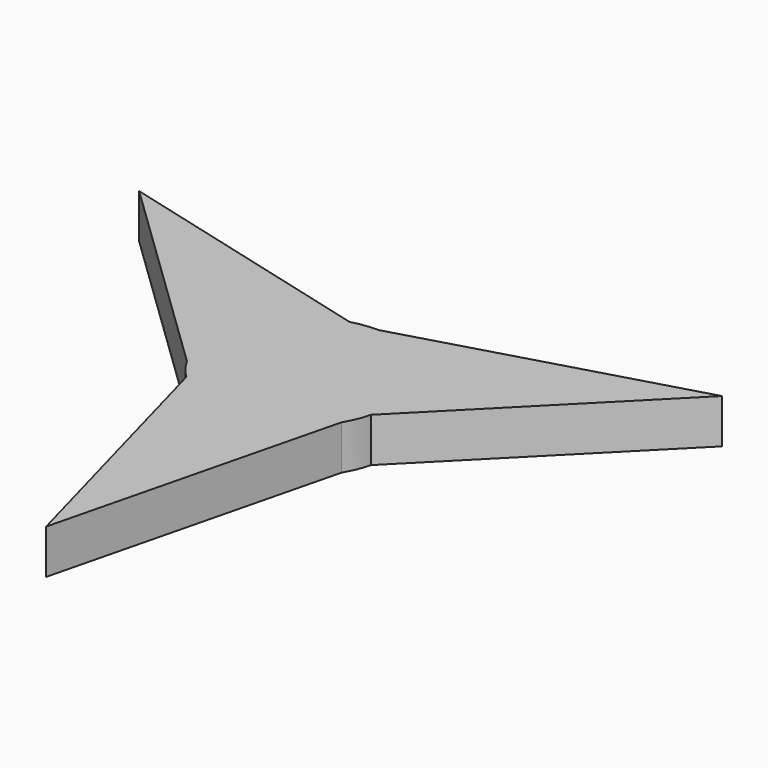
from build123d import *

# Parameters (mm, degrees)
F1_DEPTH = 6


with BuildPart() as f1:
    # F0 (on Top) → F1 (new body)
    with BuildSketch(Plane.XY):
        with BuildLine():
            ThreePointArc((0.4028900985, 12.4038021196), (2.5709266159, 12.1679521994), (4.6613367434, 11.5465078941))
            Line((4.6613367434, 11.5465078941), (27.7654736656, 20.0070271084))
            Line((27.7654736656, 20.0070271084), (18.6411851954, 12.0324539382))
            Line((18.6411851954, 12.0324539382), (29.9736770552, 16.1823066442))
            Line((29.9736770552, 16.1823066442), (12.269739771, 0.709172083))
            ThreePointArc((12.269739771, 0.709172083), (12.2734322165, 0.5725746976), (12.2755807666, 0.4359443072))
            ThreePointArc((12.2755807666, 0.4359443072), (12.2760408839, 0.3750438497), (12.2761942576, 0.3141418472))
            ThreePointArc((12.2761942576, 0.3141418472), (12.2744790315, 0.1104832554), (12.2693338398, -0.0931175575))
            ThreePointArc((12.2693338398, -0.0931175575), (12.2708871547, -0.2050074672), (12.2714049411, -0.3169069604))
            ThreePointArc((12.2714049411, -0.3169069604), (12.1817268997, -1.786827199), (11.9140229769, -3.2349439997))
            Line((11.9140229769, -3.2349439997), (38.1905606473, 23.2777061292))
            Line((38.1905606473, 23.2777061292), (0.4028900985, 12.4038021196))
        make_face()
        with BuildLine():
            Line((27.7654736656, 20.0070271084), (4.6613367434, 11.5465078941))
            ThreePointArc((4.6613367434, 11.5465078941), (10.0808508039, 7.2618778264), (12.269739771, 0.709172083))
            Line((12.269739771, 0.709172083), (29.9736770552, 16.1823066442))
            Line((29.9736770552, 16.1823066442), (18.6411851954, 12.0324539382))
            Line((18.6411851954, 12.0324539382), (27.7654736656, 20.0070271084))
        make_face()
        with BuildLine():
            Line((3.4438568973, -34.0491190968), (7.6689007896, -9.8100899824))
            ThreePointArc((7.6689007896, -9.8100899824), (1.2485452749, -12.3612118011), (-5.520708846, -10.980492381))
            Line((-5.520708846, -10.980492381), (-0.9725498819, -34.0491190968))
            Line((-0.9725498819, -34.0491190968), (1.0998181826, -22.159966905))
            Line((1.0998181826, -22.159966905), (3.4438568973, -34.0491190968))
        make_face()
        with BuildLine():
            ThreePointArc((-12.3302375329, -1.7364179117), (-11.3293960788, 5.0993339748), (-6.749030925, 10.271320298))
            Line((-6.749030925, 10.271320298), (-29.0011271733, 17.8668124526))
            Line((-29.0011271733, 17.8668124526), (-19.7410033781, 10.1275129668))
            Line((-19.7410033781, 10.1275129668), (-31.2093305629, 14.0420919883))
            Line((-31.2093305629, 14.0420919883), (-12.3302375329, -1.7364179117))
        make_face()
        with BuildLine():
            ThreePointArc((10.6356638011, 0.0027651132), (9.2601354167, 5.3290721002), (5.4775645066, 9.3232906427))
            ThreePointArc((5.4775645066, 9.3232906427), (4.2590097093, 9.8987590223), (2.9792313185, 10.3209046376))
            ThreePointArc((2.9792313185, 10.3209046376), (2.4541666957, 10.4453946208), (1.9236286682, 10.5439847593))
            ThreePointArc((1.9236286682, 10.5439847593), (-6.8022401005, 8.1831805041), (-10.8129887968, 0.0820646923))
            ThreePointArc((-10.8129887968, 0.0820646923), (-10.702081647, -1.260968817), (-10.4277813138, -2.5803621359))
            ThreePointArc((-10.4277813138, -2.5803621359), (-10.2730604705, -3.0973265194), (-10.0931729928, -3.6060810855))
            ThreePointArc((-10.0931729928, -3.6060810855), (-3.68572215, -9.9825029817), (5.3354242901, -9.405355335))
            ThreePointArc((5.3354242901, -9.405355335), (6.4430719465, -8.6377900971), (7.4485499862, -7.7405422847))
            ThreePointArc((7.4485499862, -7.7405422847), (7.8188937649, -7.3480679932), (8.1695443246, -6.9379036738))
            ThreePointArc((8.1695443246, -6.9379036738), (10.0008142042, -3.6801219501), (10.6356638011, 0.0027651132))
        make_face()
        with BuildLine():
            ThreePointArc((-6.5153292279, 10.4129926365), (-6.2860944668, 10.5450765934), (-6.0540247496, 10.6721135715))
            ThreePointArc((-6.0540247496, 10.6721135715), (-4.6462138612, 11.3988678062), (-3.1554678048, 11.9353185591))
            Line((-3.1554678048, 11.9353185591), (-39.2543651733, 21.4351426407))
            Line((-39.2543651733, 21.4351426407), (-10.9434527883, -5.8529879996))
            ThreePointArc((-10.9434527883, -5.8529879996), (-11.8232190246, -3.8574883391), (-12.3302375329, -1.7364179117))
            Line((-12.3302375329, -1.7364179117), (-31.2093305629, 14.0420919883))
            Line((-31.2093305629, 14.0420919883), (-19.7410033781, 10.1275129668))
            Line((-19.7410033781, 10.1275129668), (-29.0011271733, 17.8668124526))
            Line((-29.0011271733, 17.8668124526), (-6.749030925, 10.271320298))
            ThreePointArc((-6.749030925, 10.271320298), (-6.6325803419, 10.3428167423), (-6.5153292279, 10.4129926365))
        make_face()
        with BuildLine():
            ThreePointArc((-8.8525103113, -8.3558995928), (-9.5275626565, -7.5262882248), (-10.1266632902, -6.6402695335))
            Line((-10.1266632902, -6.6402695335), (-10.9434527883, -5.8529879996))
            ThreePointArc((-10.9434527883, -5.8529879996), (-9.9572381658, -7.3581984231), (-8.758555172, -8.7003745594))
            Line((-8.758555172, -8.7003745594), (-8.8525103113, -8.3558995928))
        make_face()
        with BuildLine():
            ThreePointArc((10.5405626898, -6.55081412), (9.2522924087, -8.3104638603), (7.6689007896, -9.8100899824))
            Line((7.6689007896, -9.8100899824), (3.4438568973, -34.0491190968))
            Line((3.4438568973, -34.0491190968), (1.0998181826, -22.159966905))
            Line((1.0998181826, -22.159966905), (-0.9725498819, -34.0491190968))
            Line((-0.9725498819, -34.0491190968), (-5.520708846, -10.980492381))
            ThreePointArc((-5.520708846, -10.980492381), (-5.6408518746, -10.9153914399), (-5.7602515386, -10.8489369436))
            ThreePointArc((-5.7602515386, -10.8489369436), (-5.9892569814, -10.7164557955), (-6.2153090902, -10.5789960141))
            ThreePointArc((-6.2153090902, -10.5789960141), (-7.5486021639, -9.7231731384), (-8.758555172, -8.7003745594))
            Line((-8.758555172, -8.7003745594), (1.063804526, -44.7128487699))
            Line((1.063804526, -44.7128487699), (10.5405626898, -6.55081412))
        make_face()
        with BuildLine():
            Line((-9.7600062572, -5.0286772803), (-10.1642111321, -3.546709802))
            Line((-10.1642111321, -3.546709802), (-10.3919691545, -3.3563573203))
            ThreePointArc((-10.3919691545, -3.3563573203), (-10.1100176265, -4.2053770686), (-9.7600062572, -5.0286772803))
        make_face()
        with BuildLine():
            ThreePointArc((-11.7489151685, 2.2634127141), (-10.0376335343, 6.7727992383), (-6.699900485, 10.2545501984))
            Line((-6.699900485, 10.2545501984), (-6.749030925, 10.271320298))
            ThreePointArc((-6.749030925, 10.271320298), (-11.3293960788, 5.0993339748), (-12.3302375329, -1.7364179117))
            Line((-12.3302375329, -1.7364179117), (-11.7626156156, -2.2108171864))
            ThreePointArc((-11.7626156156, -2.2108171864), (-11.8887787297, -1.0636337019), (-11.9049976409, 0.0903524443))
            ThreePointArc((-11.9049976409, 0.0903524443), (-11.8759986025, 1.1804050896), (-11.7489151685, 2.2634127141))
        make_face()
        with BuildLine():
            Line((5.0125747281, -10.1984064277), (6.5174877996, -8.6799706946))
            ThreePointArc((6.5174877996, -8.6799706946), (5.9378995495, -9.0613109824), (5.3354242901, -9.405355335))
            ThreePointArc((5.3354242901, -9.405355335), (-0.132259044, -10.9947864413), (-5.6621272644, -9.6374324899))
            ThreePointArc((-5.6621272644, -9.6374324899), (-0.3974988939, -11.3017490918), (5.0125747281, -10.1984064277))
        make_face()
        with BuildLine():
            ThreePointArc((-5.6621272644, -9.6374324899), (-0.132259044, -10.9947864413), (5.3354242901, -9.405355335))
            ThreePointArc((5.3354242901, -9.405355335), (-3.68572215, -9.9825029817), (-10.0931729928, -3.6060810855))
            Line((-10.0931729928, -3.6060810855), (-10.1642111321, -3.546709802))
            Line((-10.1642111321, -3.546709802), (-9.7600062572, -5.0286772803))
            ThreePointArc((-9.7600062572, -5.0286772803), (-8.0406593478, -7.6261124412), (-5.6621272644, -9.6374324899))
        make_face()
        with BuildLine():
            ThreePointArc((6.3257916804, 9.4402202667), (9.8941847419, 5.4835945189), (11.1845627577, 0.3141418472))
            ThreePointArc((11.1845627577, 0.3141418472), (11.1827531684, 0.1146231984), (11.1773249957, -0.0848298055))
            ThreePointArc((11.1773249957, -0.0848298055), (11.1791613128, -0.2008619253), (11.1797734412, -0.3169069604))
            ThreePointArc((11.1797734412, -0.3169069604), (10.9074871997, -2.7492222186), (10.1041084384, -5.0611218442))
            Line((10.1041084384, -5.0611218442), (10.9828153628, -4.1745191439))
            ThreePointArc((10.9828153628, -4.1745191439), (11.5397204119, -2.1187882177), (11.727295301, 0.0027651132))
            ThreePointArc((11.727295301, 0.0027651132), (11.726746492, 0.1179679372), (11.7251001149, 0.2331603037))
            ThreePointArc((11.7251001149, 0.2331603037), (10.5973308535, 5.1066271569), (7.5935382455, 9.1065987374))
            Line((7.5935382455, 9.1065987374), (6.3257916804, 9.4402202667))
        make_face()
        with BuildLine():
            ThreePointArc((5.8742513084, -10.3552066112), (4.9976095842, -10.7782939798), (4.0897767259, -11.1294963939))
            Line((4.0897767259, -11.1294963939), (3.9142846746, -11.3065653599))
            ThreePointArc((3.9142846746, -11.3065653599), (4.9157385069, -10.8751190299), (5.8742513084, -10.3552066112))
        make_face()
        with BuildLine():
            ThreePointArc((11.6626764745, -3.4885490204), (11.2817381271, -4.4879671843), (10.8139737491, -5.4498128981))
            Line((10.8139737491, -5.4498128981), (10.5405626898, -6.55081412))
            ThreePointArc((10.5405626898, -6.55081412), (11.3510058434, -4.9441219916), (11.9140229769, -3.2349439997))
            Line((11.9140229769, -3.2349439997), (11.6626764745, -3.4885490204))
        make_face()
        with BuildLine():
            Line((7.6689007896, -9.8100899824), (7.7959316544, -9.0813153449))
            ThreePointArc((7.7959316544, -9.0813153449), (6.865523171, -9.764167549), (5.8742513084, -10.3552066112))
            ThreePointArc((5.8742513084, -10.3552066112), (4.9157385069, -10.8751190299), (3.9142846746, -11.3065653599))
            ThreePointArc((3.9142846746, -11.3065653599), (-0.8465994279, -12.0792452537), (-5.5307507336, -10.929559122))
            Line((-5.5307507336, -10.929559122), (-5.520708846, -10.980492381))
            ThreePointArc((-5.520708846, -10.980492381), (1.2485452749, -12.3612118011), (7.6689007896, -9.8100899824))
        make_face()
        with BuildLine():
            Line((-5.5307507336, -10.929559122), (-5.6606273112, -10.2708147133))
            ThreePointArc((-5.6606273112, -10.2708147133), (-7.5163167375, -9.0080900384), (-9.1066473086, -7.4241375373))
            Line((-9.1066473086, -7.4241375373), (-9.0329015858, -7.6945171633))
            Line((-9.0329015858, -7.6945171633), (-5.8270392256, -10.7845620799))
            ThreePointArc((-5.8270392256, -10.7845620799), (-5.6793894507, -10.8580710084), (-5.5307507336, -10.929559122))
        make_face()
        with BuildLine():
            Line((-10.7758190254, -1.304324656), (-11.3383664085, 0.758186161))
            ThreePointArc((-11.3383664085, 0.758186161), (-11.3123004869, -1.0659153578), (-10.9851179751, -2.8606235198))
            Line((-10.9851179751, -2.8606235198), (-10.3919691545, -3.3563573203))
            ThreePointArc((-10.3919691545, -3.3563573203), (-10.6326845696, -2.3394676554), (-10.7758190254, -1.304324656))
        make_face()
        with BuildLine():
            ThreePointArc((-5.5151977313, 9.7222622954), (-3.1835062565, 10.7858232363), (-0.6689941305, 11.2809755123))
            Line((-0.6689941305, 11.2809755123), (-1.8761680541, 11.5986566812))
            ThreePointArc((-1.8761680541, 11.5986566812), (-4.0430764441, 11.0133662568), (-6.0644728036, 10.0376544095))
            ThreePointArc((-6.0644728036, 10.0376544095), (-9.7211342723, 6.6242441529), (-11.6833149714, 2.0228976565))
            Line((-11.6833149714, 2.0228976565), (-11.3383664085, 0.758186161))
            ThreePointArc((-11.3383664085, 0.758186161), (-9.5888523737, 5.995118686), (-5.5151977313, 9.7222622954))
        make_face()
        with BuildLine():
            Line((7.8293850735, -8.8893934571), (7.9699316263, -8.0830794701))
            ThreePointArc((7.9699316263, -8.0830794701), (6.5792600216, -9.263781918), (5.0125747281, -10.1984064277))
            Line((5.0125747281, -10.1984064277), (4.0897767259, -11.1294963939))
            ThreePointArc((4.0897767259, -11.1294963939), (4.9976095842, -10.7782939798), (5.8742513084, -10.3552066112))
            ThreePointArc((5.8742513084, -10.3552066112), (6.8889414208, -9.6718158131), (7.8293850735, -8.8893934571))
        make_face()
        with BuildLine():
            ThreePointArc((-1.8761680541, 11.5986566812), (0.9760018676, 11.7484804193), (3.7837480213, 11.2251430982))
            Line((3.7837480213, 11.2251430982), (3.9666839612, 11.2921325313))
            ThreePointArc((3.9666839612, 11.2921325313), (1.6790161925, 11.9204940635), (-0.6873104589, 12.0900824316))
            Line((-0.6873104589, 12.0900824316), (-2.1471965404, 11.6699808248))
            Line((-2.1471965404, 11.6699808248), (-1.8761680541, 11.5986566812))
        make_face()
        with BuildLine():
            ThreePointArc((-10.8129887968, 0.0820646923), (-9.4556348454, 5.6119329127), (-5.5151977313, 9.7222622954))
            ThreePointArc((-5.5151977313, 9.7222622954), (-9.5888523737, 5.995118686), (-11.3383664085, 0.758186161))
            Line((-11.3383664085, 0.758186161), (-10.7758190254, -1.304324656))
            ThreePointArc((-10.7758190254, -1.304324656), (-10.8162752771, -0.6117163638), (-10.8129887968, 0.0820646923))
        make_face()
        with BuildLine():
            Line((10.9828153628, -4.1745191439), (10.1041084384, -5.0611218442))
            ThreePointArc((10.1041084384, -5.0611218442), (9.1649765079, -6.6624664984), (7.9699316263, -8.0830794701))
            Line((7.9699316263, -8.0830794701), (7.8293850735, -8.8893934571))
            ThreePointArc((7.8293850735, -8.8893934571), (9.6864815652, -6.7194826211), (10.9828153628, -4.1745191439))
        make_face()
        with BuildLine():
            ThreePointArc((-9.1066473086, -7.4241375373), (-10.6624834328, -5.0289977982), (-11.6131330948, -2.3357496411))
            Line((-11.6131330948, -2.3357496411), (-11.7626156156, -2.2108171864))
            ThreePointArc((-11.7626156156, -2.2108171864), (-11.1629587809, -4.5061763557), (-10.1266632902, -6.6402695335))
            Line((-10.1266632902, -6.6402695335), (-9.0329015858, -7.6945171633))
            Line((-9.0329015858, -7.6945171633), (-9.1066473086, -7.4241375373))
        make_face()
        with BuildLine():
            ThreePointArc((0.5250408565, 10.966752), (-2.5840774323, 10.776471479), (-5.5151977313, 9.7222622954))
            ThreePointArc((-5.5151977313, 9.7222622954), (-9.4556348454, 5.6119329127), (-10.8129887968, 0.0820646923))
            ThreePointArc((-10.8129887968, 0.0820646923), (-6.8022401005, 8.1831805041), (1.9236286682, 10.5439847593))
            Line((1.9236286682, 10.5439847593), (2.0105647776, 10.5758199508))
            Line((2.0105647776, 10.5758199508), (0.5250408565, 10.966752))
        make_face()
        with BuildLine():
            ThreePointArc((3.9666839612, 11.2921325313), (5.0232555587, 10.8278012509), (6.0307463325, 10.2648541669))
            ThreePointArc((6.0307463325, 10.2648541669), (6.9602600956, 9.6947139402), (7.8346304939, 9.0431526458))
            ThreePointArc((7.8346304939, 9.0431526458), (10.8842329623, 5.3064460155), (12.2306512187, 0.6750089237))
            Line((12.2306512187, 0.6750089237), (12.269739771, 0.709172083))
            ThreePointArc((12.269739771, 0.709172083), (10.0808508039, 7.2618778264), (4.6613367434, 11.5465078941))
            Line((4.6613367434, 11.5465078941), (3.9666839612, 11.2921325313))
        make_face()
        with BuildLine():
            Line((7.4485499862, -7.7405422847), (8.1536463545, -7.0291101488))
            Line((8.1536463545, -7.0291101488), (8.1695443246, -6.9379036738))
            ThreePointArc((8.1695443246, -6.9379036738), (7.8188937649, -7.3480679932), (7.4485499862, -7.7405422847))
        make_face()
        with BuildLine():
            Line((-2.8101661632, 11.8444486132), (-2.1471965404, 11.6699808248))
            Line((-2.1471965404, 11.6699808248), (-0.6873104589, 12.0900824316))
            ThreePointArc((-0.6873104589, 12.0900824316), (-1.7541754707, 12.0142554091), (-2.8101661632, 11.8444486132))
        make_face()
        with BuildLine():
            Line((7.8346304939, 9.0431526458), (7.5935382455, 9.1065987374))
            ThreePointArc((7.5935382455, 9.1065987374), (10.5973308535, 5.1066271569), (11.7251001149, 0.2331603037))
            Line((11.7251001149, 0.2331603037), (12.2306512187, 0.6750089237))
            ThreePointArc((12.2306512187, 0.6750089237), (10.8842329623, 5.3064460155), (7.8346304939, 9.0431526458))
        make_face()
        with BuildLine():
            Line((2.2892938737, 10.6778879433), (3.0151863487, 10.9437029899))
            ThreePointArc((3.0151863487, 10.9437029899), (1.1873769855, 11.2683357301), (-0.6689941305, 11.2809755123))
            Line((-0.6689941305, 11.2809755123), (0.5250408565, 10.966752))
            ThreePointArc((0.5250408565, 10.966752), (1.4130454394, 10.8582206316), (2.2892938737, 10.6778879433))
        make_face()
        with BuildLine():
            Line((-5.520708846, -10.980492381), (-5.5307507336, -10.929559122))
            ThreePointArc((-5.5307507336, -10.929559122), (-5.6793894507, -10.8580710084), (-5.8270392256, -10.7845620799))
            Line((-5.8270392256, -10.7845620799), (-5.7602515386, -10.8489369436))
            ThreePointArc((-5.7602515386, -10.8489369436), (-5.6408518746, -10.9153914399), (-5.520708846, -10.980492381))
        make_face()
        with BuildLine():
            ThreePointArc((-10.9851179751, -2.8606235198), (-11.3123004869, -1.0659153578), (-11.3383664085, 0.758186161))
            Line((-11.3383664085, 0.758186161), (-11.6833149714, 2.0228976565))
            ThreePointArc((-11.6833149714, 2.0228976565), (-11.833081188, 1.0610901318), (-11.9049976409, 0.0903524443))
            ThreePointArc((-11.9049976409, 0.0903524443), (-11.8205089053, -1.1300903691), (-11.6131330948, -2.3357496411))
            Line((-11.6131330948, -2.3357496411), (-10.9851179751, -2.8606235198))
        make_face()
        with BuildLine():
            Line((12.2755807666, 0.4359443072), (12.2532243427, 0.3459170418))
            ThreePointArc((12.2532243427, 0.3459170418), (12.2632732081, 0.1264729123), (12.2693338398, -0.0931175575))
            ThreePointArc((12.2693338398, -0.0931175575), (12.2744790315, 0.1104832554), (12.2761942576, 0.3141418472))
            ThreePointArc((12.2761942576, 0.3141418472), (12.2760408839, 0.3750438497), (12.2755807666, 0.4359443072))
        make_face()
        with BuildLine():
            ThreePointArc((-10.1266632902, -6.6402695335), (-11.1629587809, -4.5061763557), (-11.7626156156, -2.2108171864))
            Line((-11.7626156156, -2.2108171864), (-12.3302375329, -1.7364179117))
            ThreePointArc((-12.3302375329, -1.7364179117), (-11.8232190246, -3.8574883391), (-10.9434527883, -5.8529879996))
            Line((-10.9434527883, -5.8529879996), (-10.1266632902, -6.6402695335))
        make_face()
        with BuildLine():
            ThreePointArc((5.4775645066, 9.3232906427), (4.8783757276, 9.6730273462), (4.2583312258, 9.9842953506))
            Line((4.2583312258, 9.9842953506), (2.9792313185, 10.3209046376))
            ThreePointArc((2.9792313185, 10.3209046376), (4.2590097093, 9.8987590223), (5.4775645066, 9.3232906427))
        make_face()
        with BuildLine():
            ThreePointArc((10.8139737491, -5.4498128981), (9.4839425885, -7.4143177078), (7.7959316544, -9.0813153449))
            Line((7.7959316544, -9.0813153449), (7.6689007896, -9.8100899824))
            ThreePointArc((7.6689007896, -9.8100899824), (9.2522924087, -8.3104638603), (10.5405626898, -6.55081412))
            Line((10.5405626898, -6.55081412), (10.8139737491, -5.4498128981))
        make_face()
        with BuildLine():
            Line((-5.8270392256, -10.7845620799), (-9.0329015858, -7.6945171633))
            Line((-9.0329015858, -7.6945171633), (-8.8525103113, -8.3558995928))
            ThreePointArc((-8.8525103113, -8.3558995928), (-7.6135857215, -9.5619653858), (-6.2153090902, -10.5789960141))
            ThreePointArc((-6.2153090902, -10.5789960141), (-6.0221078491, -10.6835425879), (-5.8270392256, -10.7845620799))
        make_face()
        with BuildLine():
            ThreePointArc((11.1773249957, -0.0848298055), (11.1827531684, 0.1146231984), (11.1845627577, 0.3141418472))
            ThreePointArc((11.1845627577, 0.3141418472), (9.8941847419, 5.4835945189), (6.3257916804, 9.4402202667))
            Line((6.3257916804, 9.4402202667), (4.2583312258, 9.9842953506))
            ThreePointArc((4.2583312258, 9.9842953506), (4.8783757276, 9.6730273462), (5.4775645066, 9.3232906427))
            ThreePointArc((5.4775645066, 9.3232906427), (9.5878938894, 5.3828535287), (11.1773249957, -0.0848298055))
        make_face()
        with BuildLine():
            Line((-8.8525103113, -8.3558995928), (-8.758555172, -8.7003745594))
            ThreePointArc((-8.758555172, -8.7003745594), (-7.5486021639, -9.7231731384), (-6.2153090902, -10.5789960141))
            ThreePointArc((-6.2153090902, -10.5789960141), (-7.6135857215, -9.5619653858), (-8.8525103113, -8.3558995928))
        make_face()
        with BuildLine():
            ThreePointArc((9.2349654007, -5.9380747197), (10.6247367801, -3.1503590378), (11.1773249957, -0.0848298055))
            ThreePointArc((11.1773249957, -0.0848298055), (9.5878938894, 5.3828535287), (5.4775645066, 9.3232906427))
            ThreePointArc((5.4775645066, 9.3232906427), (9.2601354167, 5.3290721002), (10.6356638011, 0.0027651132))
            ThreePointArc((10.6356638011, 0.0027651132), (10.0008142042, -3.6801219501), (8.1695443246, -6.9379036738))
            Line((8.1695443246, -6.9379036738), (8.1536463545, -7.0291101488))
            Line((8.1536463545, -7.0291101488), (9.2349654007, -5.9380747197))
        make_face()
        with BuildLine():
            ThreePointArc((-9.4351143079, -6.2198536681), (-7.7490437951, -8.1499089094), (-5.6621272644, -9.6374324899))
            ThreePointArc((-5.6621272644, -9.6374324899), (-8.0406593478, -7.6261124412), (-9.7600062572, -5.0286772803))
            Line((-9.7600062572, -5.0286772803), (-9.4351143079, -6.2198536681))
        make_face()
        with BuildLine():
            Line((7.9699316263, -8.0830794701), (8.1026752808, -7.321530623))
            ThreePointArc((8.1026752808, -7.321530623), (7.3423807057, -8.03844112), (6.5174877996, -8.6799706946))
            Line((6.5174877996, -8.6799706946), (5.0125747281, -10.1984064277))
            ThreePointArc((5.0125747281, -10.1984064277), (6.5792600216, -9.263781918), (7.9699316263, -8.0830794701))
        make_face()
        with BuildLine():
            Line((7.7959316544, -9.0813153449), (7.8293850735, -8.8893934571))
            ThreePointArc((7.8293850735, -8.8893934571), (6.8889414208, -9.6718158131), (5.8742513084, -10.3552066112))
            ThreePointArc((5.8742513084, -10.3552066112), (6.865523171, -9.764167549), (7.7959316544, -9.0813153449))
        make_face()
        with BuildLine():
            ThreePointArc((-11.6131330948, -2.3357496411), (-11.8205089053, -1.1300903691), (-11.9049976409, 0.0903524443))
            ThreePointArc((-11.9049976409, 0.0903524443), (-11.8887787297, -1.0636337019), (-11.7626156156, -2.2108171864))
            Line((-11.7626156156, -2.2108171864), (-11.6131330948, -2.3357496411))
        make_face()
        with BuildLine():
            ThreePointArc((3.0151863487, 10.9437029899), (4.7330404653, 10.3296972758), (6.3257916804, 9.4402202667))
            Line((6.3257916804, 9.4402202667), (7.5935382455, 9.1065987374))
            ThreePointArc((7.5935382455, 9.1065987374), (6.8354716039, 9.717203848), (6.0307463325, 10.2648541669))
            ThreePointArc((6.0307463325, 10.2648541669), (4.9315674845, 10.8019061822), (3.7837480213, 11.2251430982))
            Line((3.7837480213, 11.2251430982), (3.0151863487, 10.9437029899))
        make_face()
        with BuildLine():
            Line((-6.4261851171, 10.4386450381), (-2.1471965404, 11.6699808248))
            Line((-2.1471965404, 11.6699808248), (-2.8101661632, 11.8444486132))
            ThreePointArc((-2.8101661632, 11.8444486132), (-4.4741120735, 11.3745413416), (-6.0540247496, 10.6721135715))
            ThreePointArc((-6.0540247496, 10.6721135715), (-6.241165359, 10.5570696756), (-6.4261851171, 10.4386450381))
        make_face()
        with BuildLine():
            ThreePointArc((-11.6833149714, 2.0228976565), (-9.7211342723, 6.6242441529), (-6.0644728036, 10.0376544095))
            Line((-6.0644728036, 10.0376544095), (-6.699900485, 10.2545501984))
            ThreePointArc((-6.699900485, 10.2545501984), (-10.0376335343, 6.7727992383), (-11.7489151685, 2.2634127141))
            Line((-11.7489151685, 2.2634127141), (-11.6833149714, 2.0228976565))
        make_face()
        with BuildLine():
            Line((-5.7602515386, -10.8489369436), (-5.8270392256, -10.7845620799))
            ThreePointArc((-5.8270392256, -10.7845620799), (-6.0221078491, -10.6835425879), (-6.2153090902, -10.5789960141))
            ThreePointArc((-6.2153090902, -10.5789960141), (-5.9892569814, -10.7164557955), (-5.7602515386, -10.8489369436))
        make_face()
        with BuildLine():
            Line((2.0105647776, 10.5758199508), (2.2892938737, 10.6778879433))
            ThreePointArc((2.2892938737, 10.6778879433), (1.4130454394, 10.8582206316), (0.5250408565, 10.966752))
            Line((0.5250408565, 10.966752), (2.0105647776, 10.5758199508))
        make_face()
        with BuildLine():
            Line((-10.1642111321, -3.546709802), (-10.4277813138, -2.5803621359))
            Line((-10.4277813138, -2.5803621359), (-10.7758190254, -1.304324656))
            ThreePointArc((-10.7758190254, -1.304324656), (-10.6326845696, -2.3394676554), (-10.3919691545, -3.3563573203))
            Line((-10.3919691545, -3.3563573203), (-10.1642111321, -3.546709802))
        make_face()
        with BuildLine():
            Line((3.9666839612, 11.2921325313), (3.7837480213, 11.2251430982))
            ThreePointArc((3.7837480213, 11.2251430982), (4.9315674845, 10.8019061822), (6.0307463325, 10.2648541669))
            ThreePointArc((6.0307463325, 10.2648541669), (5.0232555587, 10.8278012509), (3.9666839612, 11.2921325313))
        make_face()
        with BuildLine():
            ThreePointArc((1.9236286682, 10.5439847593), (2.4541666957, 10.4453946208), (2.9792313185, 10.3209046376))
            Line((2.9792313185, 10.3209046376), (2.0105647776, 10.5758199508))
            Line((2.0105647776, 10.5758199508), (1.9236286682, 10.5439847593))
        make_face()
        with BuildLine():
            ThreePointArc((-6.699900485, 10.2545501984), (-6.563670604, 10.3475310465), (-6.4261851171, 10.4386450381))
            Line((-6.4261851171, 10.4386450381), (-6.5153292279, 10.4129926365))
            ThreePointArc((-6.5153292279, 10.4129926365), (-6.6325803419, 10.3428167423), (-6.749030925, 10.271320298))
            Line((-6.749030925, 10.271320298), (-6.699900485, 10.2545501984))
        make_face()
        with BuildLine():
            ThreePointArc((-0.6873104589, 12.0900824316), (1.6790161925, 11.9204940635), (3.9666839612, 11.2921325313))
            Line((3.9666839612, 11.2921325313), (4.6613367434, 11.5465078941))
            ThreePointArc((4.6613367434, 11.5465078941), (2.5709266159, 12.1679521994), (0.4028900985, 12.4038021196))
            Line((0.4028900985, 12.4038021196), (-0.6873104589, 12.0900824316))
        make_face()
        with BuildLine():
            Line((12.269739771, 0.709172083), (12.2306512187, 0.6750089237))
            ThreePointArc((12.2306512187, 0.6750089237), (12.2430600547, 0.5105399619), (12.2532243427, 0.3459170418))
            Line((12.2532243427, 0.3459170418), (12.2755807666, 0.4359443072))
            ThreePointArc((12.2755807666, 0.4359443072), (12.2734322165, 0.5725746976), (12.269739771, 0.709172083))
        make_face()
        with BuildLine():
            Line((3.9142846746, -11.3065653599), (4.0897767259, -11.1294963939))
            ThreePointArc((4.0897767259, -11.1294963939), (-0.8761965812, -11.7308713099), (-5.6606273112, -10.2708147133))
            Line((-5.6606273112, -10.2708147133), (-5.5307507336, -10.929559122))
            ThreePointArc((-5.5307507336, -10.929559122), (-0.8465994279, -12.0792452537), (3.9142846746, -11.3065653599))
        make_face()
        with BuildLine():
            Line((0.5250408565, 10.966752), (-0.6689941305, 11.2809755123))
            ThreePointArc((-0.6689941305, 11.2809755123), (-3.1835062565, 10.7858232363), (-5.5151977313, 9.7222622954))
            ThreePointArc((-5.5151977313, 9.7222622954), (-2.5840774323, 10.776471479), (0.5250408565, 10.966752))
        make_face()
        with BuildLine():
            ThreePointArc((-10.4277813138, -2.5803621359), (-10.702081647, -1.260968817), (-10.8129887968, 0.0820646923))
            ThreePointArc((-10.8129887968, 0.0820646923), (-10.8162752771, -0.6117163638), (-10.7758190254, -1.304324656))
            Line((-10.7758190254, -1.304324656), (-10.4277813138, -2.5803621359))
        make_face()
        with BuildLine():
            ThreePointArc((5.3354242901, -9.405355335), (5.9378995495, -9.0613109824), (6.5174877996, -8.6799706946))
            Line((6.5174877996, -8.6799706946), (7.4485499862, -7.7405422847))
            ThreePointArc((7.4485499862, -7.7405422847), (6.4430719465, -8.6377900971), (5.3354242901, -9.405355335))
        make_face()
        with BuildLine():
            ThreePointArc((8.1026752808, -7.321530623), (8.6969721872, -6.652843563), (9.2349654007, -5.9380747197))
            Line((9.2349654007, -5.9380747197), (8.1536463545, -7.0291101488))
            Line((8.1536463545, -7.0291101488), (8.1026752808, -7.321530623))
        make_face()
        with BuildLine():
            ThreePointArc((11.1797734412, -0.3169069604), (11.1791613128, -0.2008619253), (11.1773249957, -0.0848298055))
            ThreePointArc((11.1773249957, -0.0848298055), (10.6247367801, -3.1503590378), (9.2349654007, -5.9380747197))
            Line((9.2349654007, -5.9380747197), (10.1041084384, -5.0611218442))
            ThreePointArc((10.1041084384, -5.0611218442), (10.9074871997, -2.7492222186), (11.1797734412, -0.3169069604))
        make_face()
        with BuildLine():
            ThreePointArc((-11.9049976409, 0.0903524443), (-11.833081188, 1.0610901318), (-11.6833149714, 2.0228976565))
            Line((-11.6833149714, 2.0228976565), (-11.7489151685, 2.2634127141))
            ThreePointArc((-11.7489151685, 2.2634127141), (-11.8759986025, 1.1804050896), (-11.9049976409, 0.0903524443))
        make_face()
        with BuildLine():
            Line((-10.3919691545, -3.3563573203), (-10.9851179751, -2.8606235198))
            ThreePointArc((-10.9851179751, -2.8606235198), (-10.3523534934, -4.6058692317), (-9.4351143079, -6.2198536681))
            Line((-9.4351143079, -6.2198536681), (-9.7600062572, -5.0286772803))
            ThreePointArc((-9.7600062572, -5.0286772803), (-10.1100176265, -4.2053770686), (-10.3919691545, -3.3563573203))
        make_face()
        with BuildLine():
            Line((-9.0329015858, -7.6945171633), (-10.1266632902, -6.6402695335))
            ThreePointArc((-10.1266632902, -6.6402695335), (-9.5275626565, -7.5262882248), (-8.8525103113, -8.3558995928))
            Line((-8.8525103113, -8.3558995928), (-9.0329015858, -7.6945171633))
        make_face()
        with BuildLine():
            Line((11.1800981262, -3.9754636615), (10.9828153628, -4.1745191439))
            ThreePointArc((10.9828153628, -4.1745191439), (9.6864815652, -6.7194826211), (7.8293850735, -8.8893934571))
            Line((7.8293850735, -8.8893934571), (7.7959316544, -9.0813153449))
            ThreePointArc((7.7959316544, -9.0813153449), (9.4839425885, -7.4143177078), (10.8139737491, -5.4498128981))
            Line((10.8139737491, -5.4498128981), (11.1800981262, -3.9754636615))
        make_face()
        with BuildLine():
            Line((11.6626764745, -3.4885490204), (11.1800981262, -3.9754636615))
            Line((11.1800981262, -3.9754636615), (10.8139737491, -5.4498128981))
            ThreePointArc((10.8139737491, -5.4498128981), (11.2817381271, -4.4879671843), (11.6626764745, -3.4885490204))
        make_face()
        with BuildLine():
            Line((4.2583312258, 9.9842953506), (6.3257916804, 9.4402202667))
            ThreePointArc((6.3257916804, 9.4402202667), (4.7330404653, 10.3296972758), (3.0151863487, 10.9437029899))
            Line((3.0151863487, 10.9437029899), (2.2892938737, 10.6778879433))
            ThreePointArc((2.2892938737, 10.6778879433), (3.2903038639, 10.3779087754), (4.2583312258, 9.9842953506))
        make_face()
        with BuildLine():
            ThreePointArc((12.2714049411, -0.3169069604), (12.2708871547, -0.2050074672), (12.2693338398, -0.0931175575))
            ThreePointArc((12.2693338398, -0.0931175575), (12.087697795, -1.8125759558), (11.6626764745, -3.4885490204))
            Line((11.6626764745, -3.4885490204), (11.9140229769, -3.2349439997))
            ThreePointArc((11.9140229769, -3.2349439997), (12.1817268997, -1.786827199), (12.2714049411, -0.3169069604))
        make_face()
        with BuildLine():
            Line((4.0897767259, -11.1294963939), (5.0125747281, -10.1984064277))
            ThreePointArc((5.0125747281, -10.1984064277), (-0.3974988939, -11.3017490918), (-5.6621272644, -9.6374324899))
            ThreePointArc((-5.6621272644, -9.6374324899), (-7.7490437951, -8.1499089094), (-9.4351143079, -6.2198536681))
            Line((-9.4351143079, -6.2198536681), (-9.1066473086, -7.4241375373))
            ThreePointArc((-9.1066473086, -7.4241375373), (-7.5163167375, -9.0080900384), (-5.6606273112, -10.2708147133))
            ThreePointArc((-5.6606273112, -10.2708147133), (-0.8761965812, -11.7308713099), (4.0897767259, -11.1294963939))
        make_face()
        with BuildLine():
            ThreePointArc((-9.4351143079, -6.2198536681), (-10.3523534934, -4.6058692317), (-10.9851179751, -2.8606235198))
            Line((-10.9851179751, -2.8606235198), (-11.6131330948, -2.3357496411))
            ThreePointArc((-11.6131330948, -2.3357496411), (-10.6624834328, -5.0289977982), (-9.1066473086, -7.4241375373))
            Line((-9.1066473086, -7.4241375373), (-9.4351143079, -6.2198536681))
        make_face()
        with BuildLine():
            ThreePointArc((-10.0931729928, -3.6060810855), (-10.2730604705, -3.0973265194), (-10.4277813138, -2.5803621359))
            Line((-10.4277813138, -2.5803621359), (-10.1642111321, -3.546709802))
            Line((-10.1642111321, -3.546709802), (-10.0931729928, -3.6060810855))
        make_face()
        with BuildLine():
            ThreePointArc((-2.8101661632, 11.8444486132), (-1.7541754707, 12.0142554091), (-0.6873104589, 12.0900824316))
            Line((-0.6873104589, 12.0900824316), (0.4028900985, 12.4038021196))
            ThreePointArc((0.4028900985, 12.4038021196), (-1.3937676775, 12.3023204147), (-3.1554678048, 11.9353185591))
            Line((-3.1554678048, 11.9353185591), (-2.8101661632, 11.8444486132))
        make_face()
        with BuildLine():
            ThreePointArc((-6.0540247496, 10.6721135715), (-4.4741120735, 11.3745413416), (-2.8101661632, 11.8444486132))
            Line((-2.8101661632, 11.8444486132), (-3.1554678048, 11.9353185591))
            ThreePointArc((-3.1554678048, 11.9353185591), (-4.6462138612, 11.3988678062), (-6.0540247496, 10.6721135715))
        make_face()
        with BuildLine():
            Line((-6.5153292279, 10.4129926365), (-6.4261851171, 10.4386450381))
            ThreePointArc((-6.4261851171, 10.4386450381), (-6.241165359, 10.5570696756), (-6.0540247496, 10.6721135715))
            ThreePointArc((-6.0540247496, 10.6721135715), (-6.2860944668, 10.5450765934), (-6.5153292279, 10.4129926365))
        make_face()
        with BuildLine():
            ThreePointArc((6.5174877996, -8.6799706946), (7.3423807057, -8.03844112), (8.1026752808, -7.321530623))
            Line((8.1026752808, -7.321530623), (8.1536463545, -7.0291101488))
            Line((8.1536463545, -7.0291101488), (7.4485499862, -7.7405422847))
            Line((7.4485499862, -7.7405422847), (6.5174877996, -8.6799706946))
        make_face()
        with BuildLine():
            Line((10.1041084384, -5.0611218442), (9.2349654007, -5.9380747197))
            ThreePointArc((9.2349654007, -5.9380747197), (8.6969721872, -6.652843563), (8.1026752808, -7.321530623))
            Line((8.1026752808, -7.321530623), (7.9699316263, -8.0830794701))
            ThreePointArc((7.9699316263, -8.0830794701), (9.1649765079, -6.6624664984), (10.1041084384, -5.0611218442))
        make_face()
        with BuildLine():
            ThreePointArc((-6.0644728036, 10.0376544095), (-4.0430764441, 11.0133662568), (-1.8761680541, 11.5986566812))
            Line((-1.8761680541, 11.5986566812), (-2.1471965404, 11.6699808248))
            Line((-2.1471965404, 11.6699808248), (-6.4261851171, 10.4386450381))
            ThreePointArc((-6.4261851171, 10.4386450381), (-6.563670604, 10.3475310465), (-6.699900485, 10.2545501984))
            Line((-6.699900485, 10.2545501984), (-6.0644728036, 10.0376544095))
        make_face()
        with BuildLine():
            ThreePointArc((12.2693338398, -0.0931175575), (12.2632732081, 0.1264729123), (12.2532243427, 0.3459170418))
            Line((12.2532243427, 0.3459170418), (11.1800981262, -3.9754636615))
            Line((11.1800981262, -3.9754636615), (11.6626764745, -3.4885490204))
            ThreePointArc((11.6626764745, -3.4885490204), (12.087697795, -1.8125759558), (12.2693338398, -0.0931175575))
        make_face()
        with BuildLine():
            ThreePointArc((-0.6689941305, 11.2809755123), (1.1873769855, 11.2683357301), (3.0151863487, 10.9437029899))
            Line((3.0151863487, 10.9437029899), (3.7837480213, 11.2251430982))
            ThreePointArc((3.7837480213, 11.2251430982), (0.9760018676, 11.7484804193), (-1.8761680541, 11.5986566812))
            Line((-1.8761680541, 11.5986566812), (-0.6689941305, 11.2809755123))
        make_face()
        with BuildLine():
            Line((2.9792313185, 10.3209046376), (4.2583312258, 9.9842953506))
            ThreePointArc((4.2583312258, 9.9842953506), (3.2903038639, 10.3779087754), (2.2892938737, 10.6778879433))
            Line((2.2892938737, 10.6778879433), (2.0105647776, 10.5758199508))
            Line((2.0105647776, 10.5758199508), (2.9792313185, 10.3209046376))
        make_face()
        with BuildLine():
            ThreePointArc((6.0307463325, 10.2648541669), (6.8354716039, 9.717203848), (7.5935382455, 9.1065987374))
            Line((7.5935382455, 9.1065987374), (7.8346304939, 9.0431526458))
            ThreePointArc((7.8346304939, 9.0431526458), (6.9602600956, 9.6947139402), (6.0307463325, 10.2648541669))
        make_face()
        with BuildLine():
            Line((12.2306512187, 0.6750089237), (11.7251001149, 0.2331603037))
            ThreePointArc((11.7251001149, 0.2331603037), (11.726746492, 0.1179679372), (11.727295301, 0.0027651132))
            ThreePointArc((11.727295301, 0.0027651132), (11.5397204119, -2.1187882177), (10.9828153628, -4.1745191439))
            Line((10.9828153628, -4.1745191439), (11.1800981262, -3.9754636615))
            Line((11.1800981262, -3.9754636615), (12.2532243427, 0.3459170418))
            ThreePointArc((12.2532243427, 0.3459170418), (12.2430600547, 0.5105399619), (12.2306512187, 0.6750089237))
        make_face()
    extrude(amount=F1_DEPTH)


solid = f1.part
